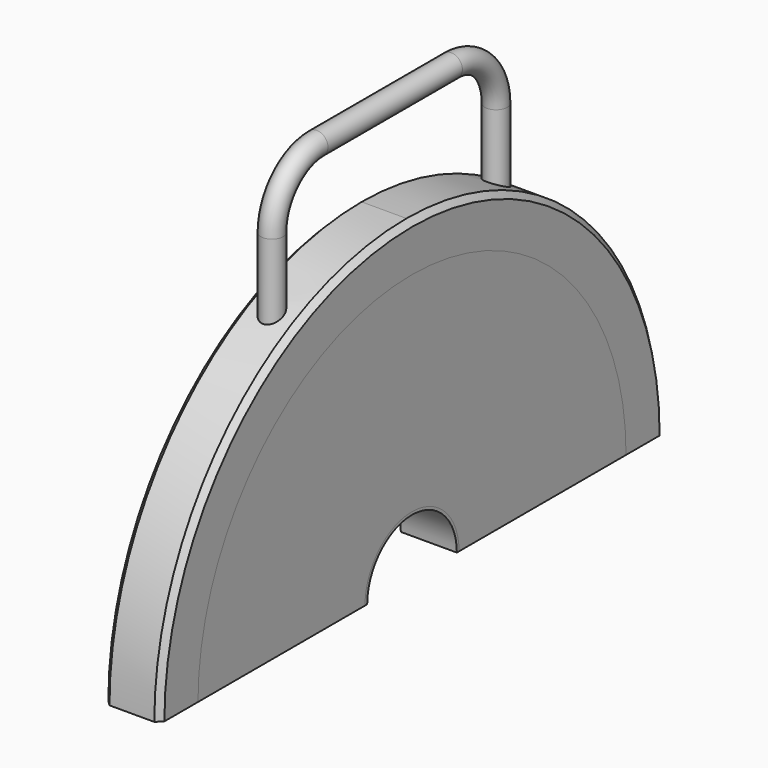
from build123d import *

# Parameters (mm, degrees)
F0_W           = 20
F0_H           = 1
F2_W           = 20
F2_H           = 74.5
F4_W           = 20
F4_H           = 17
F8_R           = 4
F10_SIZE       = 2
F11_W          = 20
F11_H          = 115
F12_DEPTH      = 112.5010001
F12_DEPTH_BACK = 112.5010001


with BuildPart() as f1:
    # F0 (on Front) → F1 (revolve)
    with BuildSketch(Plane.XZ):
        with Locations((0, 20.5)):
            Rectangle(F0_W, F0_H)
    revolve(axis=Axis((0, 0, 0), (1, 0, 0)))


with BuildPart() as f3:
    # F2 (on Front) → F3 (revolve)
    with BuildSketch(Plane.XZ):
        with Locations((0, 58.25)):
            Rectangle(F2_W, F2_H)
    revolve(axis=Axis((0, 0, 0), (1, 0, 0)))


with BuildPart() as f5:
    # F4 (on Front) → F5 (revolve)
    with BuildSketch(Plane.XZ):
        with Locations((0, 104)):
            Rectangle(F4_W, F4_H)
    revolve(axis=Axis((0, 0, 0), (1, 0, 0)))

    # F9: sweep along a path in F6
    with BuildLine(Plane.YZ) as f9_path:
        Line((-50, 95.1643315534), (-50, 125.7782218537))
        ThreePointArc((-50, 125.7782218537), (-44.1421356237, 139.9203574775), (-30, 145.7782218537))
        Line((-30, 145.7782218537), (30, 145.7782218537))
        ThreePointArc((30, 145.7782218537), (44.1421356237, 139.9203574775), (50, 125.7782218537))
        Line((50, 125.7782218537), (50, 95.1643315534))
    # F8 (on plane+point) → F9 (sweep)
    with BuildSketch(Plane.XY.offset(95.1643315534)):
        with Locations((0, -50)):
            Circle(F8_R)
    sweep(path=f9_path.line)

    # F10
    f10_edges = [f5.edges().sort_by_distance(p)[0] for p in [
        (10, 0, -112.5),
        (-10, 0, -112.5),
    ]]
    chamfer(f10_edges, length=F10_SIZE)


with BuildPart() as f12_tool:
    # F11 (on Front) → F12 (new body, two sides)
    with BuildSketch(Plane.XZ) as f12_sk:
        with Locations((0, -57.5)):
            Rectangle(F11_W, F11_H)
    extrude(amount=F12_DEPTH)
    extrude(f12_sk.sketch, amount=-F12_DEPTH_BACK)


with BuildPart() as f1_1:
    add(f1.part)

    # F12: cut by f12_tool
    add(f12_tool.part, mode=Mode.SUBTRACT)


with BuildPart() as f3_1:
    add(f3.part)

    # F12: cut by f12_tool
    add(f12_tool.part, mode=Mode.SUBTRACT)


with BuildPart() as f5_1:
    add(f5.part)

    # F12: cut by f12_tool
    add(f12_tool.part, mode=Mode.SUBTRACT)


solid = Compound([f1_1.part, f3_1.part, f5_1.part])
